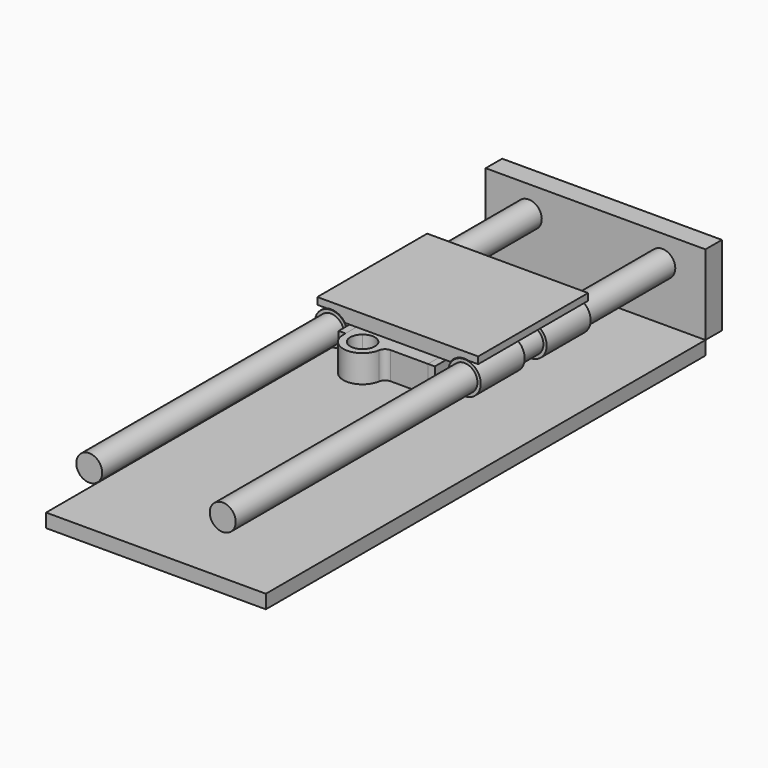
from build123d import *

# Parameters (mm, degrees)
F0_R      = 6
F1_DEPTH  = 254
F0_W      = 101.6
F0_H      = 36.88842
F2_DEPTH  = 9.525
F4_R      = 7.5340142251
F4_R_2    = 6
F5_DEPTH  = 25.4
F8_W      = 38.1
F8_H      = 12.7
F9_DEPTH  = 12.7
F10_DEPTH = 63.5
F11_W     = 254
F11_H     = 6.35
F12_DEPTH = 101.6
F13_R     = 12.7
F14_DEPTH = 12.7
F15_DEPTH = 12.7
F16_R     = 6.35
F13_W     = 38.1
F13_H     = 41.275
F13_R_2   = 17.78
F18_DEPTH = 12.7


with BuildPart() as f1:
    # F0 (on Front) → F1 (new body)
    with BuildSketch(Plane.XZ):
        with Locations((30.861, 0)):
            Circle(F0_R)
    extrude(amount=F1_DEPTH)



with BuildPart() as f1b:
    # F0 (on Front) → F1, piece 2 (new body)
    with BuildSketch(Plane.XZ):
        with Locations((-30.861, 0)):
            Circle(F0_R)
    extrude(amount=F1_DEPTH)


with BuildPart() as f1_1:
    add(f1.part)

    add(f1b.part)  # F2 merges F1b
    # F0 (on Front) → F2 (join)
    with BuildSketch(Plane.XZ):
        with Locations((0, -6.20141)):
            Rectangle(F0_W, F0_H)
        with Locations((-30.861, 0)):
            Circle(F0_R, mode=Mode.SUBTRACT)
        with Locations((30.861, 0)):
            Circle(F0_R, mode=Mode.SUBTRACT)
        with Locations((30.861, 0)):
            Circle(F0_R)
        with Locations((-30.861, 0)):
            Circle(F0_R)
    extrude(amount=-F2_DEPTH)


with BuildPart() as f5:
    # F4 (on offset) → F5 (new body)
    with BuildSketch(Plane.XZ.offset(50.8)):
        with Locations((30.8281257749, 0)):
            Circle(F4_R)
        with Locations((30.861, 0)):
            Circle(F4_R_2, mode=Mode.SUBTRACT)
    extrude(amount=F5_DEPTH)


with BuildPart() as f6_1:
    # F6: instance of F5
    add(f5.part.mirror(Plane.YZ))


with BuildPart() as f7_1:
    # F7: copy of F6_1
    add(f6_1.part.moved(Location((0, -38.1, 0))))


with BuildPart() as f7_2:
    # F7: copy of F5
    add(f5.part.moved(Location((0, -38.1, 0))))


with BuildPart() as f9:
    # F8 (on face) → F9 (new body)
    with BuildSketch(Plane(origin=(0, -50.8, 0), x_dir=(-1, 0, 0), z_dir=(0, 1, 0))):
        with Locations((0, -1.9909857749)):
            Rectangle(F8_W, F8_H)
    extrude(amount=-F9_DEPTH)


with BuildPart() as f10:
    # F8 (on face) → F10 (new body, through all)
    with BuildSketch(Plane(origin=(0, -50.8, 0), x_dir=(-1, 0, 0), z_dir=(0, 1, 0))):
        with BuildLine():
            ThreePointArc((24.3742772675, 4.3590142251), (27.1740116019, 6.8775442697), (30.8281257749, 7.7880142251))
            Line((30.8281257749, 7.7880142251), (30.8281257749, 10.7090142251))
            Line((30.8281257749, 10.7090142251), (-30.8281257749, 10.7090142251))
            Line((-30.8281257749, 10.7090142251), (-30.8281257749, 7.7880142251))
            ThreePointArc((-30.8281257749, 7.7880142251), (-27.1740116019, 6.8775442697), (-24.3742772675, 4.3590142251))
            Line((-24.3742772675, 4.3590142251), (-19.05, 4.3590142251))
            Line((-19.05, 4.3590142251), (19.05, 4.3590142251))
            Line((19.05, 4.3590142251), (24.3742772675, 4.3590142251))
        make_face()
        with BuildLine():
            Line((30.8281257749, 10.7090142251), (30.8281257749, 7.7880142251))
            ThreePointArc((30.8281257749, 7.7880142251), (31.8226496844, 7.7242532173), (32.8008891226, 7.5340142251))
            Line((32.8008891226, 7.5340142251), (37.1781257749, 7.5340142251))
            Line((37.1781257749, 7.5340142251), (37.1781257749, 10.7090142251))
            Line((37.1781257749, 10.7090142251), (30.8281257749, 10.7090142251))
        make_face()
        with BuildLine():
            Line((-30.8281257749, 7.7880142251), (-30.8281257749, 10.7090142251))
            Line((-30.8281257749, 10.7090142251), (-37.1781257749, 10.7090142251))
            Line((-37.1781257749, 10.7090142251), (-37.1781257749, 7.5340142251))
            Line((-37.1781257749, 7.5340142251), (-32.8008891226, 7.5340142251))
            ThreePointArc((-32.8008891226, 7.5340142251), (-31.8226496844, 7.7242532173), (-30.8281257749, 7.7880142251))
        make_face()
    extrude(amount=-F10_DEPTH)


with BuildPart() as f12:
    # F11 (on face) → F12 (new body, through all)
    with BuildSketch(Plane(origin=(-50.8, 0, 0), x_dir=(0, -1, 0), z_dir=(-1, 0, 0))):
        with Locations((127, -27.82062)):
            Rectangle(F11_W, F11_H)
    extrude(amount=-F12_DEPTH)


with BuildPart() as f14:
    # F13 (on face) → F14 (new body)
    with BuildSketch(Plane(origin=(0, 0, 4.3590142251), x_dir=(1, 0, 0), z_dir=(0, 0, -1))):
        with Locations((0, 95.25)):
            Circle(F13_R)
    extrude(amount=F14_DEPTH)


with BuildPart() as f15:
    # F13 (on face) → F15 (new body)
    with BuildSketch(Plane(origin=(0, 0, 4.3590142251), x_dir=(1, 0, 0), z_dir=(0, 0, -1))):
        Polygon((19.05, 73.025), (19.05, 50.8), (22.225, 50.8), (22.225, 114.3), (19.05, 114.3), align=None)
        Polygon((19.05, 114.3), (22.225, 114.3), (22.225, 120.65), (19.05, 120.65), (19.05, 117.475), align=None)
        Polygon((19.05, 73.025), (19.05, 50.8), (22.225, 50.8), (22.225, 114.3), (19.05, 114.3), align=None)
    extrude(amount=F15_DEPTH)

    # F16
    f16_edges = [f15.edges().sort_by_distance(p)[0] for p in [
        (20.6375, -50.8, 4.359014),
    ]]
    fillet(f16_edges, radius=F16_R)


with BuildPart() as f17_1:
    # F17: instance of F15
    add(f15.part.mirror(Plane.YZ))


with BuildPart() as f18:
    # F13 (on face) → F18 (new body, through all)
    with BuildSketch(Plane(origin=(0, 0, 4.3590142251), x_dir=(1, 0, 0), z_dir=(0, 0, -1))):
        with BuildLine():
            Line((-19.05, 114.3), (19.05, 114.3))
            Line((19.05, 114.3), (19.05, 117.475))
            Line((19.05, 117.475), (-6.5678975516, 117.475))
            ThreePointArc((-6.5678975516, 117.475), (-10.16, 116.205), (-13.7521024484, 117.475))
            Line((-13.7521024484, 117.475), (-19.05, 117.475))
            Line((-19.05, 117.475), (-19.05, 114.3))
        make_face()
        with BuildLine():
            Line((-6.5678975516, 117.475), (19.05, 117.475))
            Line((19.05, 117.475), (19.05, 120.65))
            Line((19.05, 120.65), (1.75365603, 120.65))
            ThreePointArc((1.75365603, 120.65), (-0.3065560184, 121.409187235), (-1.3815166095, 123.3236842105))
            ThreePointArc((-1.3815166095, 123.3236842105), (-10.8640534989, 130.7820769953), (-19.05, 121.92))
            Line((-19.05, 121.92), (-19.05, 117.475))
            Line((-19.05, 117.475), (-13.7521024484, 117.475))
            ThreePointArc((-13.7521024484, 117.475), (-12.6229615818, 127.0770384182), (-4.445, 121.92))
            ThreePointArc((-4.445, 121.92), (-5.0029615818, 119.4570384182), (-6.5678975516, 117.475))
        make_face()
        with Locations((0, 93.6625)):
            Rectangle(F13_W, F13_H)
        with Locations((0, 95.25)):
            Circle(F13_R_2, mode=Mode.SUBTRACT)
    extrude(amount=F18_DEPTH)


solid = Compound([f1_1.part, f5.part, f6_1.part, f7_1.part, f7_2.part, f9.part, f10.part, f12.part, f14.part, f15.part, f17_1.part, f18.part])
